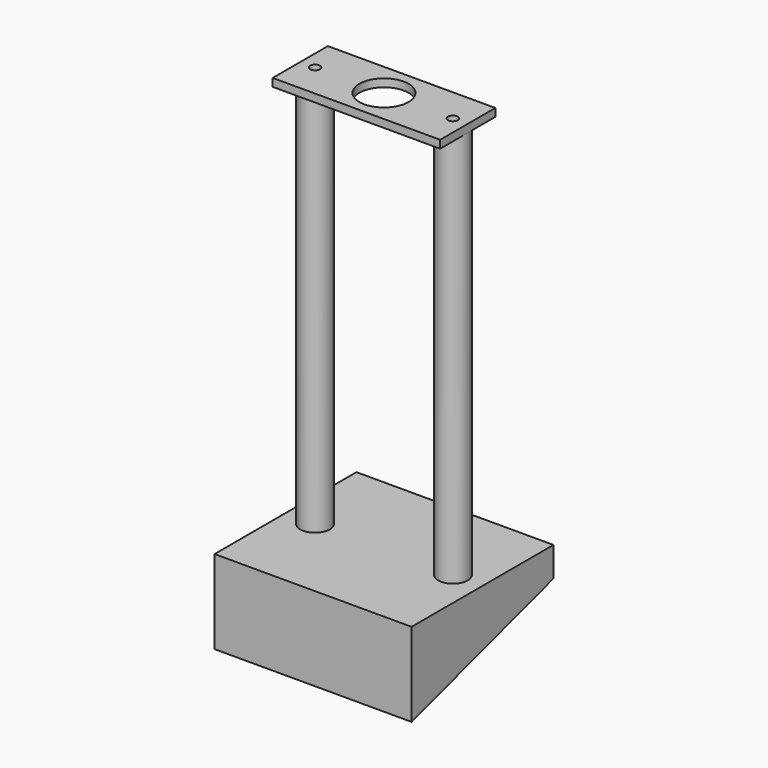
from build123d import *

# Parameters (mm, degrees)
F0_W     = 170
F0_H     = 70
F0_R     = 5
F0_R_2   = 25
F1_DEPTH = 8
F2_R     = 15
F3_DEPTH = 400
F5_DEPTH = 100


with BuildPart() as f1:
    # F0 (on Top) → F1 (new body)
    with BuildSketch(Plane.XY):
        Rectangle(F0_W, F0_H)
        with Locations((-70, 0)):
            Circle(F0_R, mode=Mode.SUBTRACT)
        Circle(F0_R_2, mode=Mode.SUBTRACT)
        with Locations((70, 0)):
            Circle(F0_R, mode=Mode.SUBTRACT)
    extrude(amount=F1_DEPTH)


with BuildPart() as f3:
    # F2 (on Top) → F3 (new body)
    with BuildSketch(Plane.XY):
        with Locations((-70, 0)):
            Circle(F2_R)
        with Locations((70, 0)):
            Circle(F2_R)
    extrude(amount=-F3_DEPTH)


with BuildPart() as f5:
    # F4 (on Right) → F5 (new body, symmetric)
    with BuildSketch(Plane.YZ):
        Polygon((90, -430), (90, -400), (-90, -400), (-90, -485), align=None)
    extrude(amount=F5_DEPTH, both=True)


solid = Compound([f1.part, f3.part, f5.part])
